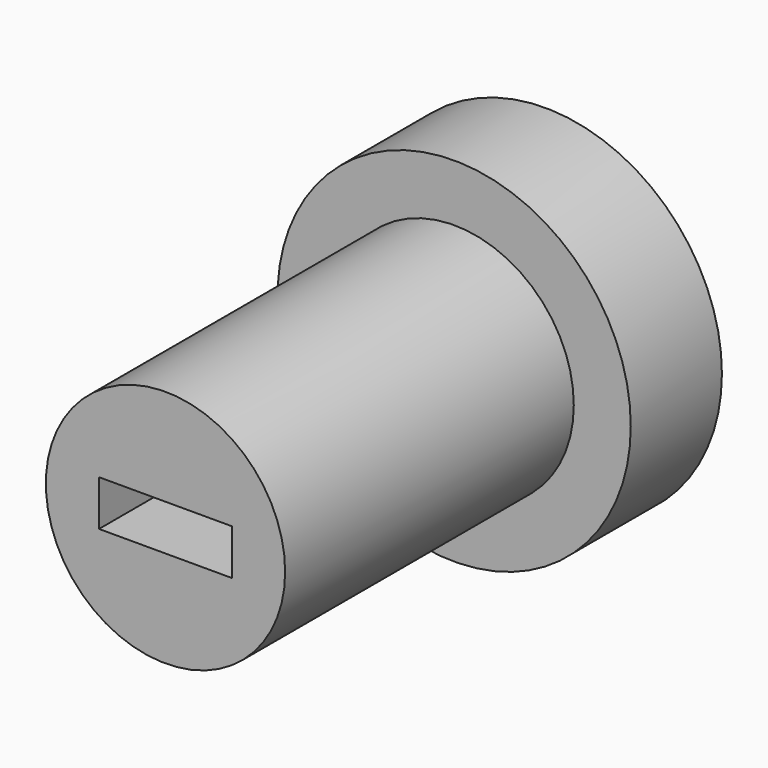
from build123d import *

# Parameters (mm, degrees)
F0_R     = 4.65
F0_R_2   = 3.15
F0_W     = 3.5
F0_H     = 1.2
F1_DEPTH = 2
F2_DEPTH = 3
F3_DEPTH = 12.5


with BuildPart() as f1:
    # F0 (on Front) → F1 (new body)
    with BuildSketch(Plane.XZ):
        Circle(F0_R)
        Circle(F0_R_2, mode=Mode.SUBTRACT)
        Circle(F0_R)
        Circle(F0_R_2, mode=Mode.SUBTRACT)
        Circle(F0_R_2)
        Rectangle(F0_W, F0_H, mode=Mode.SUBTRACT)
    extrude(amount=F1_DEPTH)

    # F0 (on Front) → F2 (join)
    with BuildSketch(Plane.XZ):
        Circle(F0_R)
        Circle(F0_R_2, mode=Mode.SUBTRACT)
        Circle(F0_R_2)
        Rectangle(F0_W, F0_H, mode=Mode.SUBTRACT)
    extrude(amount=F2_DEPTH)

    # F0 (on Front) → F3 (join)
    with BuildSketch(Plane.XZ):
        Circle(F0_R_2)
        Rectangle(F0_W, F0_H, mode=Mode.SUBTRACT)
    extrude(amount=F3_DEPTH)


solid = f1.part
